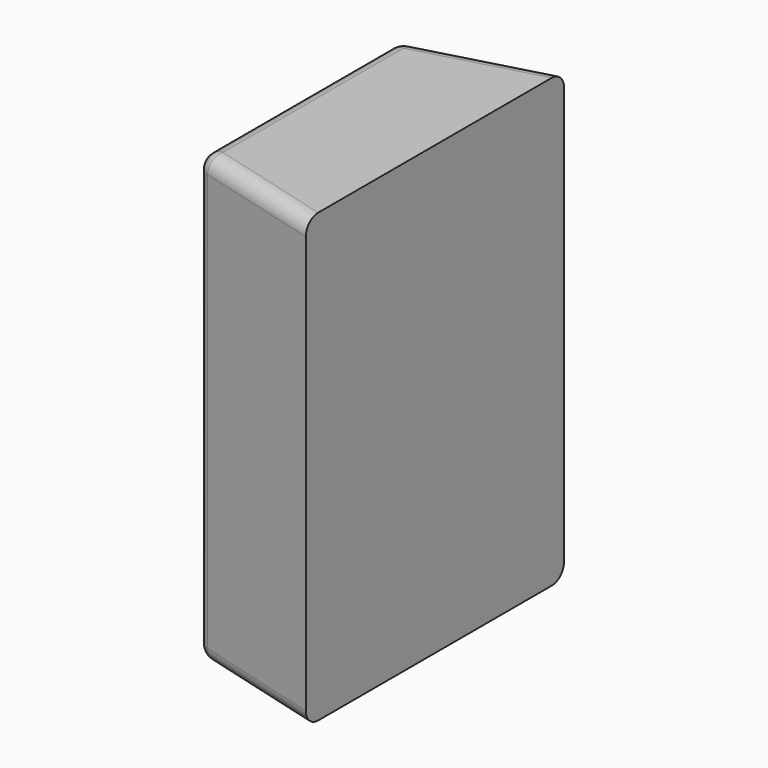
from build123d import *

# Parameters (mm, degrees)
PAD_DEPTH       = 90
POCKET_DEPTH    = 45
SKETCH002_W     = 40
SKETCH002_H     = 57
POCKET001_DEPTH = 45
SKETCH003_R     = 10.5
SKETCH003_W     = 18
SKETCH003_H     = 8
POCKET002_DEPTH = 40
FILLET_R        = 6
FILLET001_R     = 3
FILLET002_R     = 4
FILLET003_R     = 3
FILLET004_R     = 3


with BuildPart() as part:
    # Sketch → Pad (new body, symmetric)
    with BuildSketch(Plane.XY):
        Polygon((-55, 50), (0, 65), (0, -65), (-55, -50), align=None)
    extrude(amount=PAD_DEPTH, both=True)

    # Sketch001 (on Face4 of Pad) → Pocket (cut)
    with BuildSketch(Plane(origin=(-55, 0, 0), x_dir=(0, -1, 0), z_dir=(-1, 0, 0))):
        Polygon((7.870361, 81.046063), (27.870361, 81.046063), (27.706422, -63.953844), (7.870361, -63.953844), align=None)
    extrude(amount=-POCKET_DEPTH, mode=Mode.SUBTRACT)

    # Sketch002 (on Face2 of Pocket) → Pocket001 (cut)
    with BuildSketch(Plane(origin=(-55, 0, 0), x_dir=(0, -1, 0), z_dir=(-1, 0, 0))):
        with Locations((-24.249742, 42.474102)):
            Rectangle(SKETCH002_W, SKETCH002_H)
    extrude(amount=-POCKET001_DEPTH, mode=Mode.SUBTRACT)

    # Sketch003 (on Face2 of Pocket001) → Pocket002 (cut)
    with BuildSketch(Plane(origin=(-55, 0, 0), x_dir=(0, -1, 0), z_dir=(-1, 0, 0))):
        with Locations((-24.992333, -20.97492)):
            Circle(SKETCH003_R)
        with Locations((-24.674738, -49.574854)):
            Circle(SKETCH003_R)
        with Locations((-26.581285, -76.962609)):
            Rectangle(SKETCH003_W, SKETCH003_H)
    extrude(amount=-POCKET002_DEPTH, mode=Mode.SUBTRACT)

    # Fillet
    fillet_edges = [part.edges().sort_by_distance(p)[0] for p in [
        (-27.5, -57.5, -90),
        (-27.5, 57.5, -90),
        (-55, 50, 0),
        (-55, -50, 0),
        (-55, 0, -90),
        (-55, 0, 90),
        (-27.5, -57.5, 90),
        (-27.5, 57.5, 90),
    ]]
    fillet(fillet_edges, radius=FILLET_R)

    # Fillet001
    fillet001_edges = [part.edges().sort_by_distance(p)[0] for p in [
        (-55, 35.492333, -20.97492),
        (-55, 35.174738, -49.574854),
    ]]
    fillet(fillet001_edges, radius=FILLET001_R)

    # Fillet002
    fillet002_edges = [part.edges().sort_by_distance(p)[0] for p in [
        (-55, -27.788392, 8.546109),
        (-55, -7.870361, 8.546109),
    ]]
    fillet(fillet002_edges, radius=FILLET002_R)

    # Fillet003
    fillet003_edges = [part.edges().sort_by_distance(p)[0] for p in [
        (-55, 4.249742, 42.474102),
        (-55, 24.249742, 70.974102),
        (-55, 24.249742, 13.974102),
    ]]
    fillet(fillet003_edges, radius=FILLET003_R)

    # Fillet004
    fillet004_edges = [part.edges().sort_by_distance(p)[0] for p in [
        (-55, 26.581285, -72.962609),
        (-55, 35.581285, -76.962609),
        (-55, 17.581285, -76.962609),
        (-55, 26.581285, -80.962609),
    ]]
    fillet(fillet004_edges, radius=FILLET004_R)


solid = part.part
